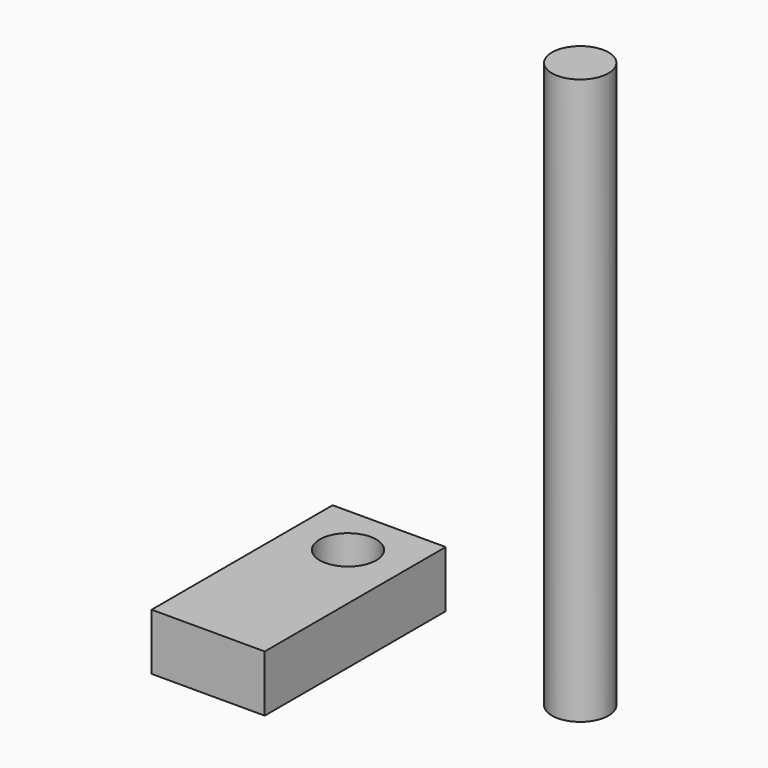
from build123d import *

# Parameters (mm, degrees)
F0_W     = 25.4
F0_H     = 50.8
F0_R     = 6.35
F1_DEPTH = 12.7
F2_R     = 6.35
F3_DEPTH = 127


with BuildPart() as f1:
    # F0 (on Top) → F1 (new body)
    with BuildSketch(Plane.XY):
        with Locations((-39.323646, 14.842267)):
            Rectangle(F0_W, F0_H)
        with Locations((-39.323646, 28.684493)):
            Circle(F0_R, mode=Mode.SUBTRACT)
    extrude(amount=F1_DEPTH)


with BuildPart() as f3:
    # F2 (on Top) → F3 (new body)
    with BuildSketch(Plane.XY):
        with Locations((14.08511, 27.10993)):
            Circle(F2_R)
    extrude(amount=F3_DEPTH)


solid = Compound([f1.part, f3.part])
